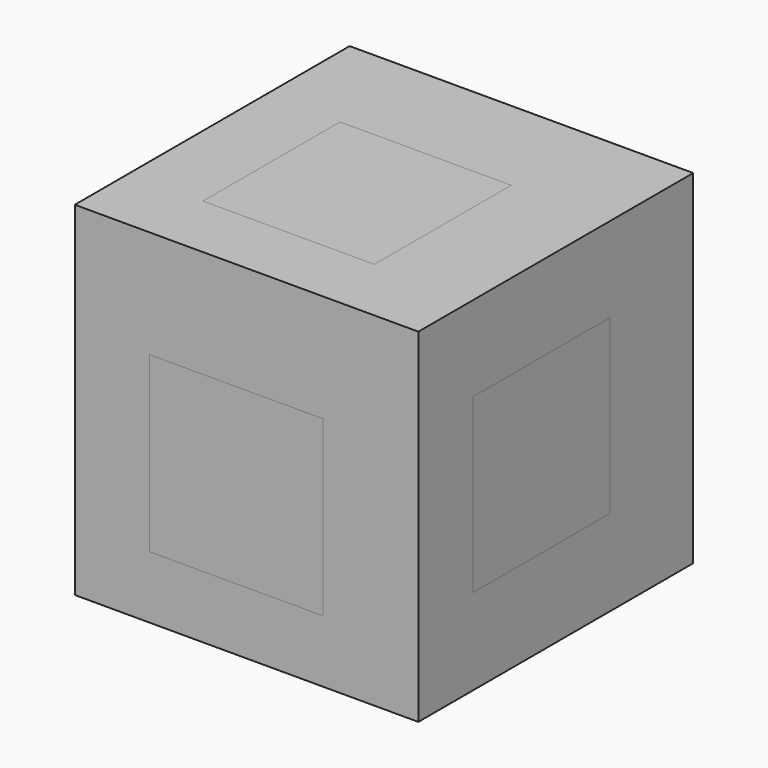
from build123d import *

# Parameters (mm, degrees)
F0_W      = 25.4
F0_H      = 25.4
F1_DEPTH  = 25.4
F2_W      = 12.7
F2_H      = 12.7
F3_DEPTH  = 3.175
F4_W      = 12.7
F4_H      = 12.7
F5_DEPTH  = 3.175
F6_W      = 12.7
F6_H      = 12.7
F7_DEPTH  = 3.175
F8_W      = 12.7
F8_H      = 12.7
F9_DEPTH  = 3.175
F10_W     = 12.7
F10_H     = 12.7
F11_DEPTH = 3.175
F12_W     = 12.7
F12_H     = 12.7
F13_DEPTH = 3.175
F15_W     = 12.7
F15_H     = 12.7
F16_DEPTH = 3.175
F17_W     = 12.6634519547
F17_H     = 12.7354045399
F18_DEPTH = 3.175
F19_DEPTH = 3.175
F20_W     = 12.6684606075
F20_H     = 12.6175838523
F21_DEPTH = 3.175
F22_W     = 12.6684606075
F22_H     = 12.6175838523
F23_DEPTH = 3.175
F24_W     = 12.6636438072
F24_H     = 12.6636438072
F25_DEPTH = 3.175
F26_W     = 12.6636447385
F26_H     = 12.7492104657
F27_DEPTH = 3.175
F28_W     = 12.8267854452
F28_H     = 12.8267859109
F29_DEPTH = 3.175
F30_W     = 12.6636447385
F30_H     = 12.7492104657
F31_DEPTH = 3.175
F32_W     = 12.8267854452
F32_H     = 12.8267859109
F33_DEPTH = 3.175
F34_W     = 12.6636438072
F34_H     = 12.6636438072
F35_DEPTH = 3.175


with BuildPart() as f1:
    # F0 (on Front) → F1 (new body)
    with BuildSketch(Plane.XZ):
        with Locations((-37.148510812, 12.7)):
            Rectangle(F0_W, F0_H)
    extrude(amount=F1_DEPTH)

    # F2 (on face) → F3 (cut)
    with BuildSketch(Plane.XZ.offset(25.4)):
        with Locations((-36.6952344775, 11.9878393746)):
            Rectangle(F2_W, F2_H)
    extrude(amount=-F3_DEPTH, mode=Mode.SUBTRACT)

    # F4 (on face) → F5 (cut)
    with BuildSketch(Plane(origin=(-49.848510812, 0, 0), x_dir=(0, -1, 0), z_dir=(-1, 0, 0))):
        with Locations((12.02116278, 15.1086977403)):
            Rectangle(F4_W, F4_H)
    extrude(amount=-F5_DEPTH, mode=Mode.SUBTRACT)

    # F6 (on face) → F7 (cut)
    with BuildSketch(Plane(origin=(0, 0, 0), x_dir=(-1, 0, 0), z_dir=(0, 1, 0))):
        with Locations((37.432719022, 11.7305689754)):
            Rectangle(F6_W, F6_H)
    extrude(amount=-F7_DEPTH, mode=Mode.SUBTRACT)

    # F10 (on face) → F11 (join)
    with BuildSketch(Plane.XZ.offset(22.225)):
        with Locations((-36.6952344775, 11.9878393746)):
            Rectangle(F10_W, F10_H)
    extrude(amount=F11_DEPTH)

    # F17 (on face) → F18 (cut)
    with BuildSketch(Plane(origin=(0, 0, 0), x_dir=(1, 0, 0), z_dir=(0, 0, -1))):
        with Locations((-37.2643144801, 11.3814079668)):
            Rectangle(F17_W, F17_H)
    extrude(amount=-F18_DEPTH, mode=Mode.SUBTRACT)

    # F19 (add): a face of the model
    f19_faces = [f1.faces().sort_by_distance(p)[0] for p in [
        (-37.2643144801, -11.3814079668, 3.175),
    ]]
    extrude(f19_faces, amount=F19_DEPTH)

    # F20 (on face) → F21 (cut)
    with BuildSketch(Plane(origin=(0, 0, 0), x_dir=(1, 0, 0), z_dir=(0, 0, -1))):
        with Locations((-38.0833484232, 10.6200820301)):
            Rectangle(F20_W, F20_H)
    extrude(amount=-F21_DEPTH, mode=Mode.SUBTRACT)

    # F24 (on face) → F25 (cut)
    with BuildSketch(Plane.XY.offset(25.4)):
        with Locations((-38.0246657878, -14.0896886587)):
            Rectangle(F24_W, F24_H)
    extrude(amount=-F25_DEPTH, mode=Mode.SUBTRACT)

    # F26 (on face) → F27 (cut)
    with BuildSketch(Plane.YZ.offset(-24.448510812)):
        with Locations((-14.0041238628, 12.7401610371)):
            Rectangle(F26_W, F26_H)
    extrude(amount=-F27_DEPTH, mode=Mode.SUBTRACT)

    # F28 (on face) → F29 (cut)
    with BuildSketch(Plane.XZ.offset(25.4)):
        with Locations((-37.9159785807, 11.0263393726)):
            Rectangle(F28_W, F28_H)
    extrude(amount=-F29_DEPTH, mode=Mode.SUBTRACT)


with BuildPart() as f9:
    # F8 (on face) → F9 (new body)
    with BuildSketch(Plane(origin=(0, -3.175, 0), x_dir=(-1, 0, 0), z_dir=(0, 1, 0))):
        with Locations((37.432719022, 11.7305689754)):
            Rectangle(F8_W, F8_H)
    extrude(amount=F9_DEPTH)


with BuildPart() as f13:
    # F12 (on face) → F13 (new body)
    with BuildSketch(Plane(origin=(-49.848510812, 0, 0), x_dir=(0, -1, 0), z_dir=(-1, 0, 0))):
        with Locations((12.02116278, 15.1086977403)):
            Rectangle(F12_W, F12_H)
    extrude(amount=F13_DEPTH)


with BuildPart() as f16:
    # F15 (on face) → F16 (new body)
    with BuildSketch(Plane(origin=(-46.673510812, 0, 0), x_dir=(0, -1, 0), z_dir=(-1, 0, 0))):
        with Locations((12.02116278, 15.1086977403)):
            Rectangle(F15_W, F15_H)
    extrude(amount=F16_DEPTH)


with BuildPart() as f23:
    # F22 (on face) → F23 (new body)
    with BuildSketch(Plane(origin=(0, 0, 3.175), x_dir=(1, 0, 0), z_dir=(0, 0, -1))):
        with Locations((-38.0833484232, 10.6200820301)):
            Rectangle(F22_W, F22_H)
    extrude(amount=F23_DEPTH)


with BuildPart() as f31:
    # F30 (on face) → F31 (new body)
    with BuildSketch(Plane.YZ.offset(-27.623510812)):
        with Locations((-14.0041238628, 12.7401610371)):
            Rectangle(F30_W, F30_H)
    extrude(amount=F31_DEPTH)


with BuildPart() as f33:
    # F32 (on face) → F33 (new body)
    with BuildSketch(Plane.XZ.offset(22.225)):
        with Locations((-37.9159785807, 11.0263393726)):
            Rectangle(F32_W, F32_H)
    extrude(amount=F33_DEPTH)


with BuildPart() as f35:
    # F34 (on face) → F35 (new body)
    with BuildSketch(Plane.XY.offset(22.225)):
        with Locations((-38.0246657878, -14.0896886587)):
            Rectangle(F34_W, F34_H)
    extrude(amount=F35_DEPTH)


solid = Compound([f1.part, f9.part, f16.part, f23.part, f31.part, f33.part, f35.part])
